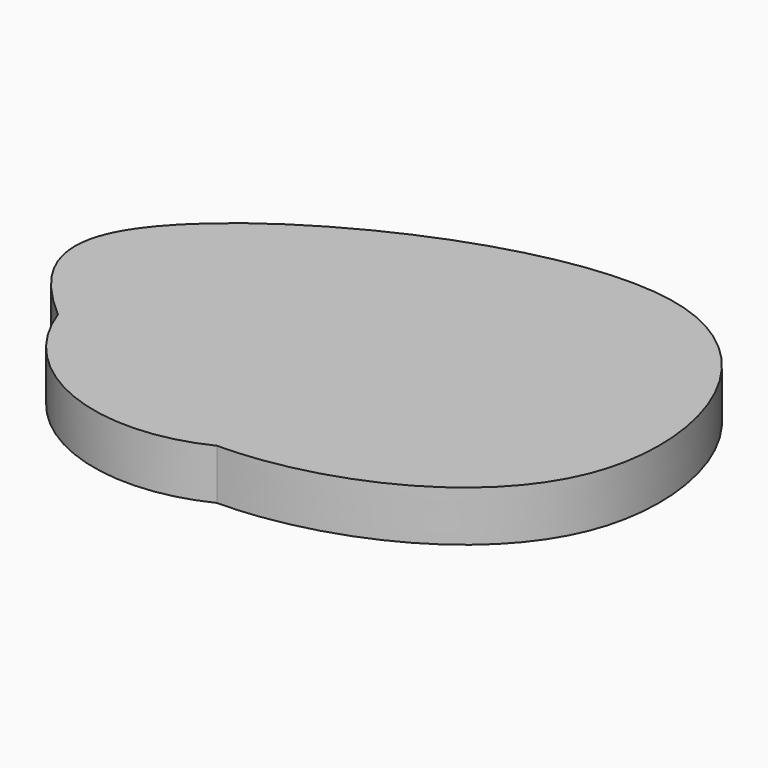
from build123d import *

# Parameters (mm, degrees)
F1_DEPTH = 6.604


with BuildPart() as f1:
    # F0 (on Top) → F1 (new body)
    with BuildSketch(Plane.XY):
        with BuildLine():
            ThreePointArc((-24.2677763462, -12.5630199019), (-15.1188700512, -4.3157875342), (-11.7259904466, 7.5251455419))
            ThreePointArc((-11.7259904466, 7.5251455419), (-37.9031613912, 29.5551192353), (-55.1385594597, 0))
            add(Edge.make_bspline(
                [(-24.2677763462, -12.5630199019), (-36.6980881199, -12.6080692122), (-47.2651420852, -6.8203802372), (-55.1385594597, 0)],
                knots=[0.8095776514, 0.8095776514, 0.8095776514, 0.8095776514, 1, 1, 1, 1], degree=3))
        make_face()
        with BuildLine():
            ThreePointArc((-55.1385594597, 0), (-37.9031613912, 29.5551192353), (-11.7259904466, 7.5251455419))
            ThreePointArc((-11.7259904466, 7.5251455419), (-15.1188700512, -4.3157875342), (-24.2677763462, -12.5630199019))
            add(Edge.make_bspline(
                [(-55.1385594597, 0), (-61.1122048128, 5.1746948971), (-73.3979194879, 21.1993351165), (0.8127101321, 59.4008500864), (20.1445974763, 1.1050627144), (-10.8265518833, -12.5143068929), (-24.2677763462, -12.5630199019)],
                knots=[0, 0, 0, 0, 0.1444754576, 0.4013009125, 0.603668936, 0.8095776514, 0.8095776514, 0.8095776514, 0.8095776514], degree=3))
        make_face()
        with BuildLine():
            add(Edge.make_bspline(
                [(-24.2677763462, -12.5630199019), (-36.6980881199, -12.6080692122), (-47.2651420852, -6.8203802372), (-55.1385594597, 0)],
                knots=[0.8095776514, 0.8095776514, 0.8095776514, 0.8095776514, 1, 1, 1, 1], degree=3))
            ThreePointArc((-55.1385594597, 0), (-42.5122331082, -13.1841530558), (-24.2677763462, -12.5630199019))
        make_face()
    extrude(amount=F1_DEPTH)


solid = f1.part
